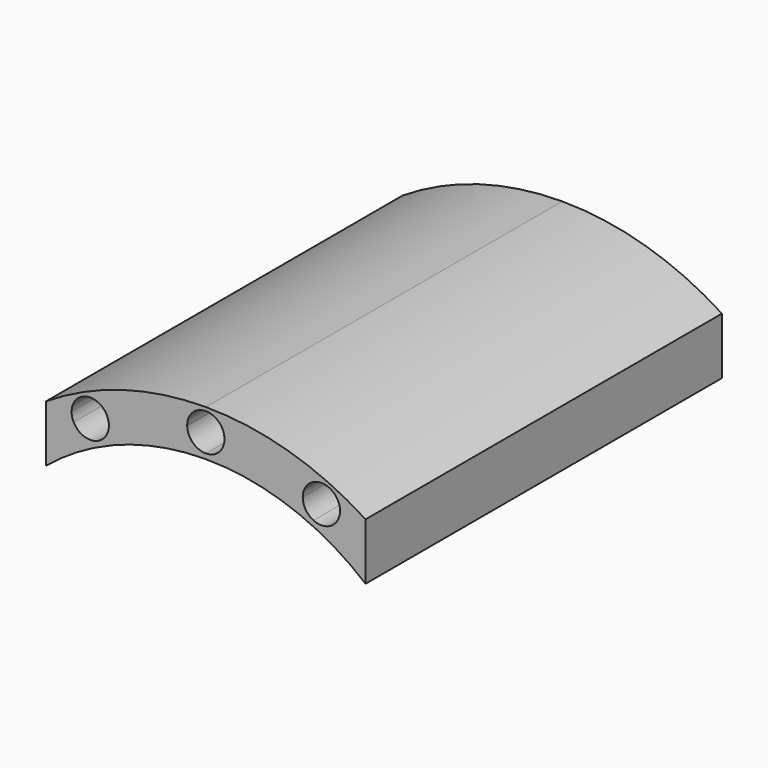
from build123d import *

# Parameters (mm, degrees)
F1_DEPTH = 151.638
F3_DEPTH = 151.639


with BuildPart() as f1:
    # F0 (on Front) → F1 (new body)
    with BuildSketch(Plane.XZ):
        with BuildLine():
            Line((-54.3814, 84.69110101), (-54.3814, 65.3618316473))
            ThreePointArc((-54.3814, 65.3618316473), (-28.9138195651, 79.959344297), (0, 85.0265))
            Line((0, 85.0265), (0, 100.6475))
            ThreePointArc((0, 100.6475), (-28.3370046701, 96.5760499429), (-54.3814, 84.69110101))
        make_face()
        with BuildLine():
            ThreePointArc((0, 85.0265), (28.9138195651, 79.959344297), (54.3814, 65.3618316473))
            Line((54.3814, 65.3618316473), (54.3814, 84.69110101))
            ThreePointArc((54.3814, 84.69110101), (28.3370046701, 96.5760499429), (0, 100.6475))
            Line((0, 100.6475), (0, 85.0265))
        make_face()
    extrude(amount=F1_DEPTH)

    # F2 (on face) → F3 (cut, through all)
    with BuildSketch(Plane(origin=(0, 0, 0), x_dir=(-1, 0, 0), z_dir=(0, 1, 0))):
        with BuildLine():
            Line((-42.0255825658, 90.1241526507), (-39.3419566037, 84.369098203))
            ThreePointArc((-39.3419566037, 84.369098203), (-36.4415405084, 85.6618258408), (-33.4987215532, 86.8548785924))
            ThreePointArc((-33.4987215532, 86.8548785924), (-37.0686725002, 90.2982363685), (-42.0255825658, 90.1241526507))
        make_face()
        with BuildLine():
            ThreePointArc((-45.0021339488, 81.4907492974), (-42.1965949561, 82.9781998787), (-39.3419566037, 84.369098203))
            Line((-39.3419566037, 84.369098203), (-42.0255825658, 90.1241526507))
            ThreePointArc((-42.0255825658, 90.1241526507), (-45.3451788028, 86.4388380968), (-45.0021339488, 81.4907492974))
        make_face()
        with BuildLine():
            ThreePointArc((-45.0021339488, 81.4907492974), (-41.4116964975, 78.3658760039), (-36.6583306416, 78.6140437553))
            Line((-36.6583306417, 78.6140437553), (-39.3419566037, 84.369098203))
            ThreePointArc((-39.3419566037, 84.369098203), (-42.1965949561, 82.9781998787), (-45.0021339488, 81.4907492974))
        make_face()
        with BuildLine():
            Line((-39.3419566037, 84.369098203), (-36.6583306417, 78.6140437553))
            ThreePointArc((-36.6583306416, 78.6140437553), (-33.9864209228, 80.95724569), (-32.9919566037, 84.369098203))
            ThreePointArc((-32.9919566037, 84.369098203), (-33.1199375355, 85.6375534504), (-33.4987215532, 86.8548785924))
            ThreePointArc((-33.4987215532, 86.8548785924), (-36.4415405084, 85.6618258408), (-39.3419566037, 84.369098203))
        make_face()
        with BuildLine():
            ThreePointArc((-6.346305615, 92.8744242838), (-3.175, 93.0368403161), (0, 93.091))
            Line((0, 93.091), (0, 99.441))
            ThreePointArc((0, 99.441), (-4.5660571502, 97.5038927135), (-6.346305615, 92.8744242838))
        make_face()
        with BuildLine():
            Line((0, 99.441), (0, 93.091))
            ThreePointArc((0, 93.091), (3.175, 93.0368403161), (6.346305615, 92.8744242838))
            ThreePointArc((6.346305615, 92.8744242838), (6.3490763366, 92.9826963882), (6.35, 93.091))
            ThreePointArc((6.35, 93.091), (4.4901280605, 97.5811280605), (0, 99.441))
        make_face()
        with BuildLine():
            Line((0, 93.091), (0, 86.741))
            ThreePointArc((0, 86.741), (4.4128927135, 88.5249428498), (6.346305615, 92.8744242838))
            ThreePointArc((6.346305615, 92.8744242838), (3.175, 93.0368403161), (0, 93.091))
        make_face()
        with BuildLine():
            ThreePointArc((-6.346305615, 92.8744242838), (-4.4128927135, 88.5249428498), (0, 86.741))
            Line((0, 86.741), (0, 93.091))
            ThreePointArc((0, 93.091), (-3.175, 93.0368403161), (-6.346305615, 92.8744242838))
        make_face()
        with BuildLine():
            ThreePointArc((33.4987215532, 86.8548785924), (36.4415405084, 85.6618258408), (39.3419566037, 84.369098203))
            Line((39.3419566037, 84.369098203), (42.0255825658, 90.1241526507))
            ThreePointArc((42.0255825658, 90.1241526507), (37.0686725002, 90.2982363685), (33.4987215532, 86.8548785924))
        make_face()
        with BuildLine():
            Line((42.0255825658, 90.1241526507), (39.3419566037, 84.369098203))
            ThreePointArc((39.3419566037, 84.369098203), (42.1965949561, 82.9781998787), (45.0021339488, 81.4907492974))
            ThreePointArc((45.0021339488, 81.4907492974), (45.5170932881, 82.8891701881), (45.6919566037, 84.369098203))
            ThreePointArc((45.6919566037, 84.369098203), (44.6974922846, 87.780950716), (42.0255825658, 90.1241526507))
        make_face()
        with BuildLine():
            Line((39.3419566037, 84.369098203), (36.6583306417, 78.6140437553))
            ThreePointArc((36.6583306416, 78.6140437553), (41.4116964975, 78.3658760039), (45.0021339488, 81.4907492974))
            ThreePointArc((45.0021339488, 81.4907492974), (42.1965949561, 82.9781998787), (39.3419566037, 84.369098203))
        make_face()
        with BuildLine():
            ThreePointArc((33.4987215532, 86.8548785924), (33.4128184383, 82.0958140996), (36.6583306416, 78.6140437553))
            Line((36.6583306417, 78.6140437553), (39.3419566037, 84.369098203))
            ThreePointArc((39.3419566037, 84.369098203), (36.4415405084, 85.6618258408), (33.4987215532, 86.8548785924))
        make_face()
    extrude(amount=-F3_DEPTH, mode=Mode.SUBTRACT)


solid = f1.part
